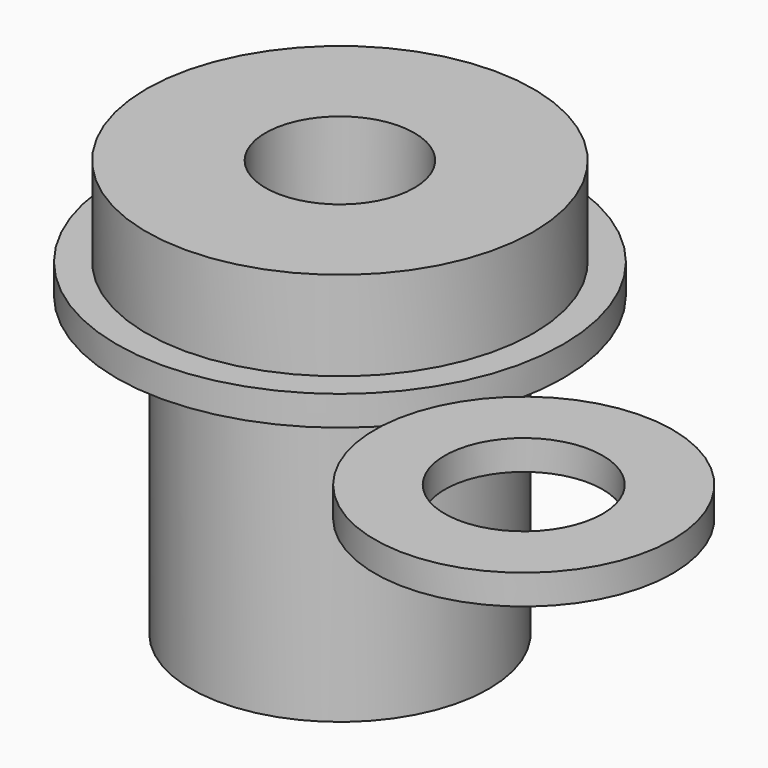
from build123d import *

# Parameters (mm, degrees)
F0_R     = 7.5
F0_R_2   = 6.5
F0_R_3   = 2.5
F1_DEPTH = 1
F2_DEPTH = 4
F3_R     = 5
F3_R_2   = 2.5
F4_DEPTH = 10
F5_R     = 5
F5_R_2   = 2.65
F6_DEPTH = 1


with BuildPart() as f1:
    # F0 (on Top) → F1 (new body)
    with BuildSketch(Plane.XY):
        Circle(F0_R)
        Circle(F0_R_2, mode=Mode.SUBTRACT)
        Circle(F0_R_2)
        Circle(F0_R_3, mode=Mode.SUBTRACT)
    extrude(amount=F1_DEPTH)

    # F0 (on Top) → F2 (join)
    with BuildSketch(Plane.XY):
        Circle(F0_R_2)
        Circle(F0_R_3, mode=Mode.SUBTRACT)
    extrude(amount=F2_DEPTH)


with BuildPart() as f4:
    # F3 (on face) → F4 (new body)
    with BuildSketch(Plane(origin=(0, 0, 0), x_dir=(1, 0, 0), z_dir=(0, 0, -1))):
        Circle(F3_R)
        Circle(F3_R_2, mode=Mode.SUBTRACT)
    extrude(amount=F4_DEPTH)


with BuildPart() as f6:
    # F5 (on Top) → F6 (new body)
    with BuildSketch(Plane.XY):
        with Locations((11.669965, -6.87046)):
            Circle(F5_R)
        with Locations((11.669965, -6.87046)):
            Circle(F5_R_2, mode=Mode.SUBTRACT)
    extrude(amount=F6_DEPTH)


solid = Compound([f1.part, f4.part, f6.part])
